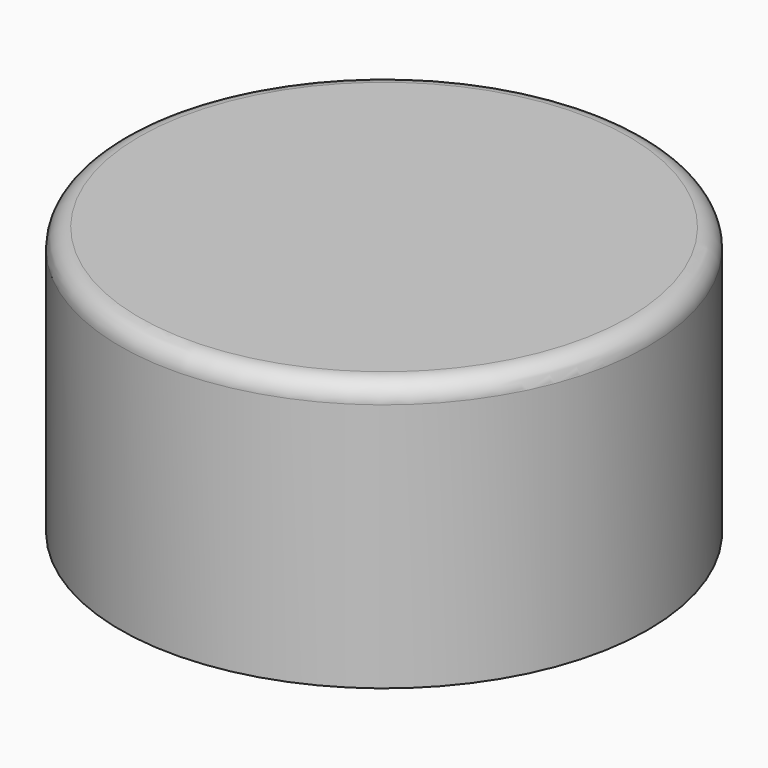
from build123d import *

# Parameters (mm, degrees)
F1_R     = 34.925
F2_DEPTH = 35.56
F3_R     = 2.54
F4_R     = 28.575
F5_DEPTH = 22.86


with BuildPart() as f2:
    # F1 (on face) → F2 (new body)
    with BuildSketch(Plane.XY):
        Circle(F1_R)
    extrude(amount=F2_DEPTH)

    # F3
    f3_edges = [f2.edges().sort_by_distance(p)[0] for p in [
        (-34.925, 0, 35.56),
    ]]
    fillet(f3_edges, radius=F3_R)

    # F4 (on Top) → F5 (cut)
    with BuildSketch(Plane.XY):
        Circle(F4_R)
    extrude(amount=F5_DEPTH, mode=Mode.SUBTRACT)


solid = f2.part
